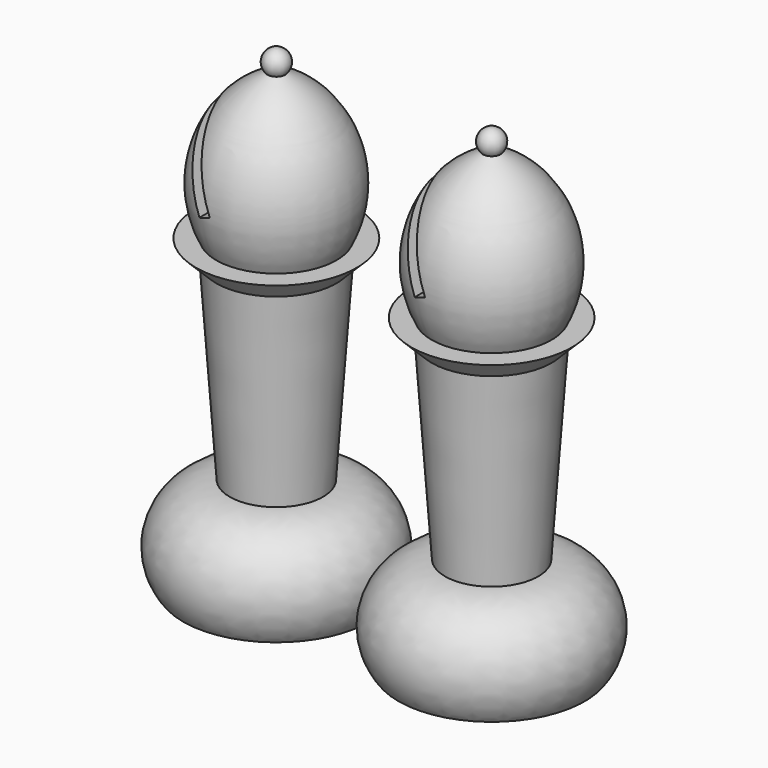
from build123d import *

# Parameters (mm, degrees)
F4_W     = 2
F4_H     = 44.469102
F5_DEPTH = 20


with BuildPart() as f1:
    # F0 (on Front) → F1 (revolve)
    with BuildSketch(Plane.XZ):
        with BuildLine():
            Line((-13, 0), (0, 0))
            Line((0, 0), (0, 66.160994))
            ThreePointArc((0, 66.160994), (-1.57767, 65.120303), (-1.241972, 63.26036))
            ThreePointArc((-1.241972, 63.26036), (-9.16201, 54.564221), (-8.373996, 42.828427))
            Line((-8.373996, 42.828427), (-11.202423, 42.828427))
            Line((-11.202423, 42.828427), (-8.373996, 40))
            Line((-8.373996, 40), (-6.5, 13.20061))
            ThreePointArc((-6.5, 13.20061), (-13.857073, 8.622634), (-13, 0))
        make_face()
    revolve(axis=Axis((0, 0, 33.131464), (0, 0, 1)))

    # F4 (on face) → F5 (cut)
    with BuildSketch(Plane(origin=(-25.130766, 0, 60.671035), x_dir=(0.92388, 0, 0.382683), z_dir=(-0.382683, 0, 0.92388))):
        with Locations((16.435929, -0.805729)):
            Rectangle(F4_W, F4_H)
    extrude(amount=-F5_DEPTH, mode=Mode.SUBTRACT)


with BuildPart() as f6_1:
    # F6: copy of F1
    add(f1.part.moved(Location((30, 0, 0))))


solid = Compound([f1.part, f6_1.part])
